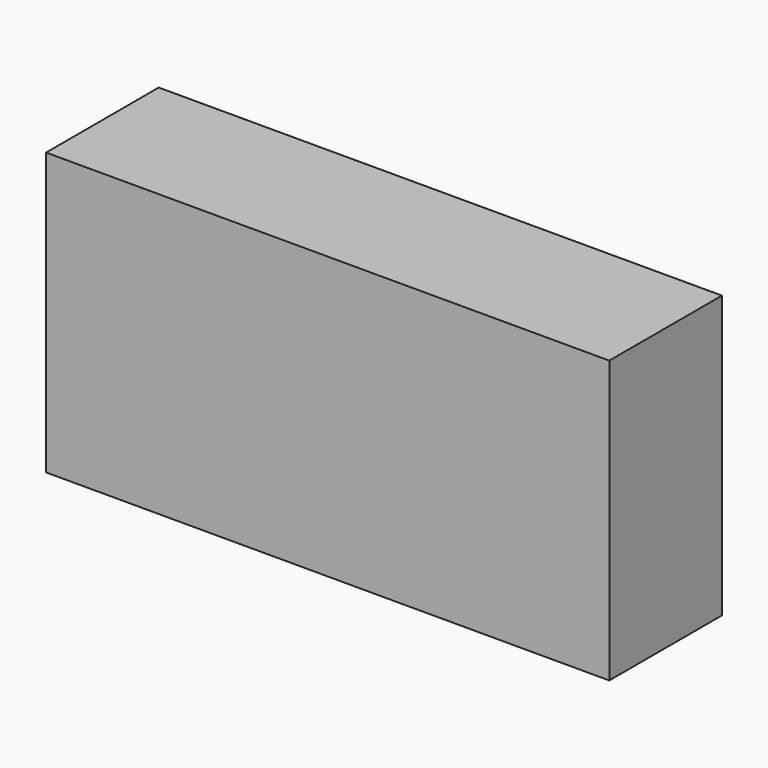
from build123d import *

# Parameters (mm, degrees)
SKETCH_W      = 100
SKETCH_H      = 25
EXTRUDE_DEPTH = 50


with BuildPart() as part:
    # Sketch → Extrude (new body)
    with BuildSketch(Plane.XY):
        Rectangle(SKETCH_W, SKETCH_H)
    extrude(amount=EXTRUDE_DEPTH)


solid = part.part
